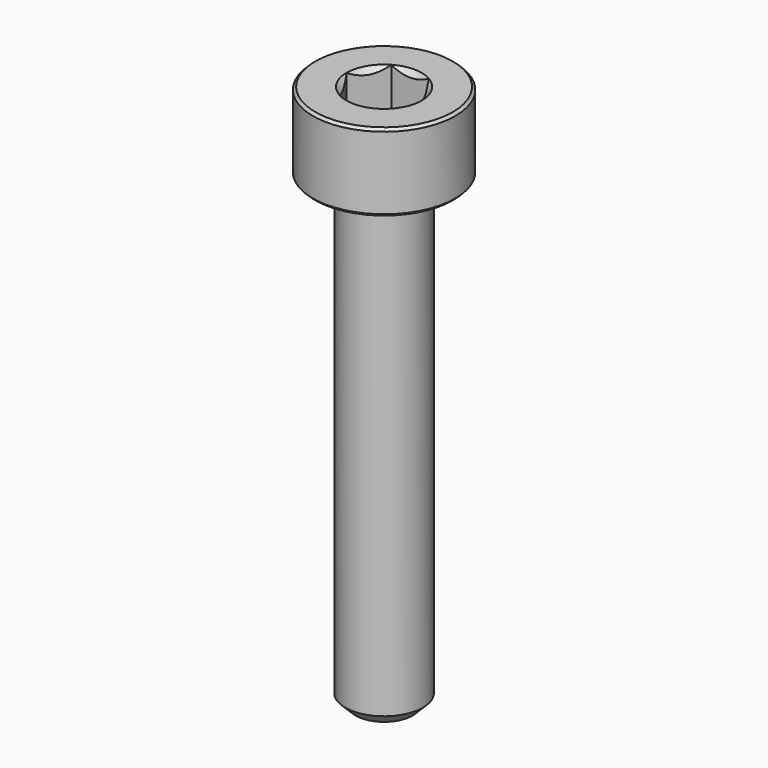
from build123d import *

# Parameters (mm, degrees)
SKETCH001_R     = 3.75
POCKET_DEPTH    = 9.70192
CHAMFER_SIZE    = 0.4
CHAMFER001_SIZE = 0.1


with BuildPart() as pocket:
    # Sketch003 → Revolution001 (revolve)
    with BuildSketch(Plane.XZ):
        Polygon((0, 0.29908), (2.75, 1.3), (2.75, 10), (0, 10), align=None)
    revolve(axis=Axis((0, 0, 0), (0, 0, 1)))

    # Sketch001 → Pocket (cut, through all)
    with BuildSketch(Plane(origin=(0, 0, 10), x_dir=(-1, 0, 0), z_dir=(0, 0, 1))):
        Circle(SKETCH001_R)
        Polygon((-0.721688, 1.25), (0.721688, 1.25), (1.443376, 0), (0.721688, -1.25), (-0.721688, -1.25), (-1.443376, 0), align=None, mode=Mode.SUBTRACT)
    extrude(amount=-POCKET_DEPTH, mode=Mode.SUBTRACT)


with BuildPart() as chamfer001:
    # Sketch → Revolution (revolve)
    with BuildSketch(Plane.XZ):
        Polygon((1.45, 3), (2.75, 3), (2.75, 0), (1.5, 0), (1.5, -18), (0, -18), (0, 1.549999), align=None)
    revolve(axis=Axis((0, 0, 0), (0, 0, 1)))

    # Cut: cut Pocket
    add(pocket.part, mode=Mode.SUBTRACT)

    # Chamfer
    chamfer_edges = [chamfer001.edges().sort_by_distance(p)[0] for p in [
        (-1.5, 0, -18),
    ]]
    chamfer(chamfer_edges, length=CHAMFER_SIZE)

    # Chamfer001
    chamfer001_edges = [chamfer001.edges().sort_by_distance(p)[0] for p in [
        (-2.75, 0, 0),
        (-2.75, 0, 3),
    ]]
    chamfer(chamfer001_edges, length=CHAMFER001_SIZE)


solid = chamfer001.part
